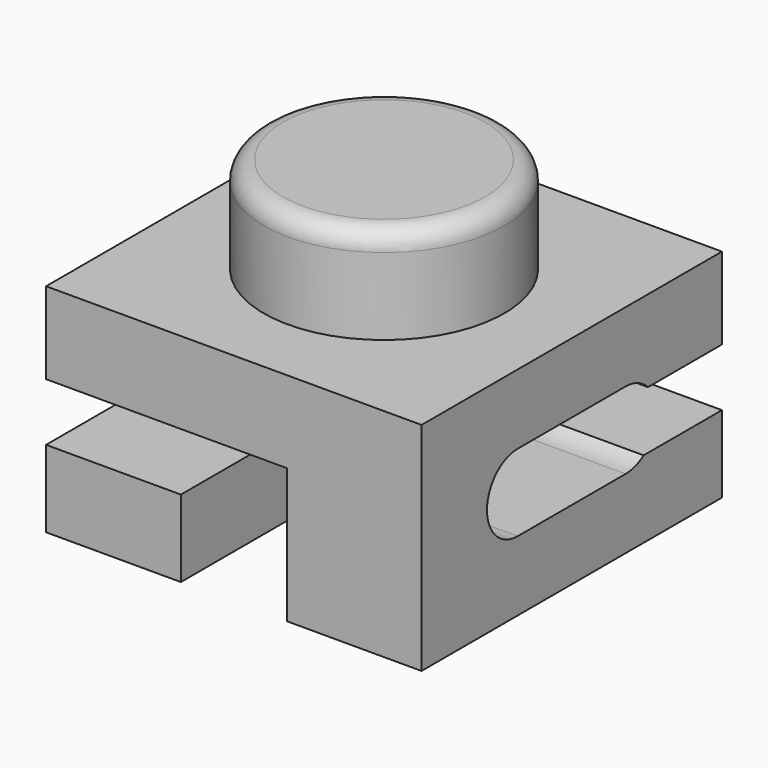
from build123d import *

# Parameters (mm, degrees)
SKETCH001_W     = 7.8
SKETCH001_H     = 7.8
PAD_DEPTH       = 4.5
POCKET_DEPTH    = 5
POCKET001_DEPTH = 5
POCKET002_DEPTH = 5


with BuildPart() as part:
    # Sketch → Revolution (revolve)
    with BuildSketch(Plane.XZ):
        with BuildLine():
            Line((0, 0), (0, 2))
            Line((0, 2), (-2.1, 2))
            ThreePointArc((-2.1, 2), (-2.382843, 1.882843), (-2.5, 1.6))
            Line((-2.5, 1.6), (-2.5, 0))
            Line((-2.5, 0), (0, 0))
        make_face()
    revolve(axis=Axis((0, 0, 0), (0, 0, 1)))

    # Sketch001 → Pad (new body)
    with BuildSketch(Plane.XY):
        Rectangle(SKETCH001_W, SKETCH001_H)
    extrude(amount=-PAD_DEPTH)

    # Sketch002 → Pocket (cut, symmetric)
    with BuildSketch(Plane.YZ):
        with BuildLine():
            ThreePointArc((-1.4, -1.45), (-2.2, -2.25), (-1.4, -3.05))
            Line((-1.4, -3.05), (1.4, -3.05))
            ThreePointArc((1.4, -3.05), (2.2, -2.25), (1.4, -1.45))
            Line((-1.4, -1.45), (1.4, -1.45))
        make_face()
    extrude(amount=POCKET_DEPTH, both=True, mode=Mode.SUBTRACT)

    # Sketch003 → Pocket001 (cut)
    with BuildSketch(Plane.XZ):
        Polygon((1.1, -5.9), (-1.1, -5.9), (-1.1, -2.9), (-5.1, -2.9), (-5.1, -1.7), (1.1, -1.7), align=None)
    extrude(amount=POCKET001_DEPTH, mode=Mode.SUBTRACT)

    # Sketch004 → Pocket002 (cut)
    with BuildSketch(Plane.XZ):
        Polygon((-1.1, -1.7), (-1.1, -6.7), (1.1, -6.7), (1.1, -2.9), (5.1, -2.9), (5.1, -1.7), align=None)
    extrude(amount=-POCKET002_DEPTH, mode=Mode.SUBTRACT)


solid = part.part
